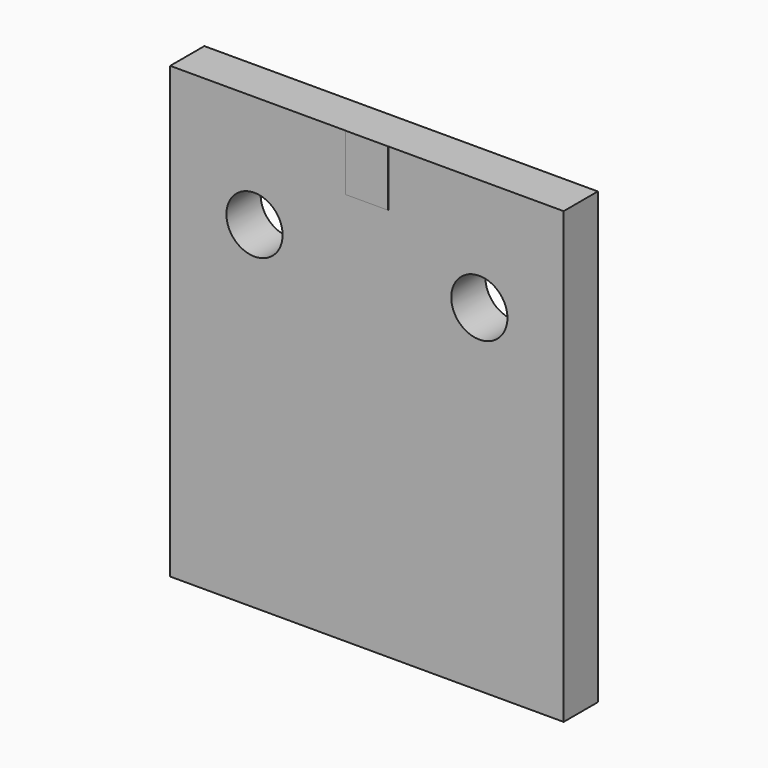
from build123d import *

# Parameters (mm, degrees)
F0_R     = 6.35
F1_DEPTH = 9.652
F2_W     = 9.652
F2_H     = 12.7
F3_DEPTH = 9.6774


with BuildPart() as f1:
    # F0 (on Front) → F1 (new body)
    with BuildSketch(Plane.XZ):
        Polygon((-69.85, -45.803874), (19.05, -45.803874), (19.05, 55.796126), (-20.574, 55.796126), (-20.574, 41.805074), (-30.226, 41.805074), (-30.226, 55.796126), (-69.85, 55.796126), align=None)
        with Locations((-50.8, 30.396126)):
            Circle(F0_R, mode=Mode.SUBTRACT)
        with Locations((0, 30.396126)):
            Circle(F0_R, mode=Mode.SUBTRACT)
        Polygon((-20.574, 41.805074), (-20.574, 55.796126), (-25.4, 55.796126), (-30.226, 55.796126), (-30.226, 41.805074), align=None)
    extrude(amount=-F1_DEPTH)

    # F2 (on face) → F3 (join)
    with BuildSketch(Plane(origin=(0, 9.652, 0), x_dir=(-1, 0, 0), z_dir=(0, 1, 0))):
        with Locations((25.4, 49.446126)):
            Rectangle(F2_W, F2_H)
    extrude(amount=-F3_DEPTH)


solid = f1.part
